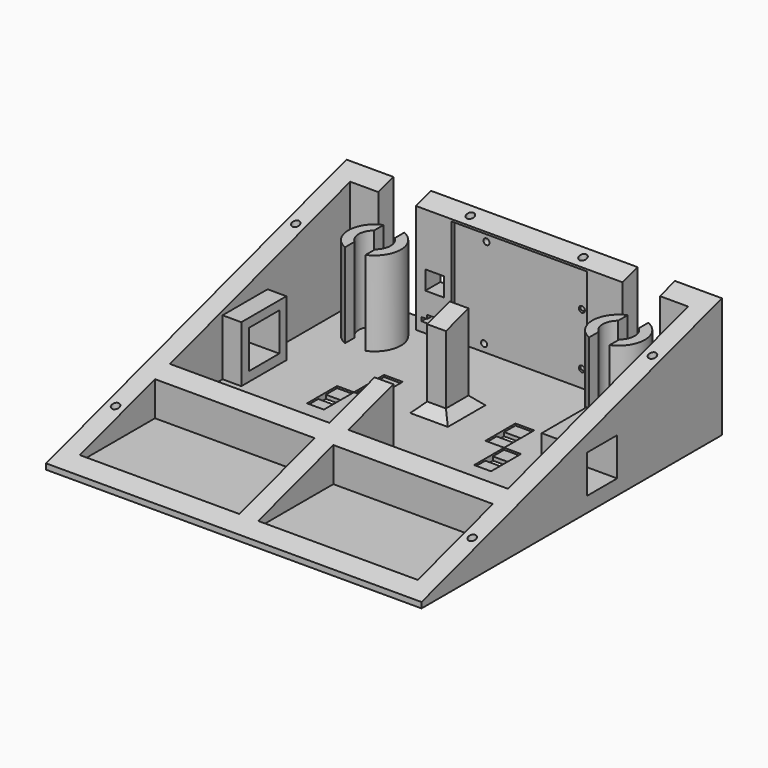
from build123d import *

# Parameters (mm, degrees)
SKETCH_W        = 200
SKETCH_H        = 200
PAD_DEPTH       = 3
PAD001_DEPTH    = 100
SKETCH004_W     = 85
SKETCH004_H     = 50
POCKET_DEPTH    = 200
PAD002_DEPTH    = 45
SKETCH005_W     = 30
SKETCH005_H     = 30
PAD003_DEPTH    = 100
SKETCH006_W     = 32
SKETCH006_H     = 35
SKETCH006_W_2   = 50
SKETCH006_H_2   = 40
SKETCH006_W_3   = 80
SKETCH006_W_4   = 8
SKETCH006_H_3   = 30
POCKET001_DEPTH = 200
SKETCH003_W     = 20.3
SKETCH003_H     = 20.3
POCKET002_DEPTH = 250
SKETCH012_W     = 10
SKETCH012_H     = 20
POCKET003_DEPTH = 1
SKETCH002_R     = 2
POCKET004_DEPTH = 250
SKETCH011_W     = 72
SKETCH011_H     = 57
POCKET005_DEPTH = 2
SKETCH013_R     = 1.6
POCKET006_DEPTH = 10
SKETCH014_W     = 10
SKETCH014_H     = 10
POCKET007_DEPTH = 10
SKETCH015_W     = 9
SKETCH015_H     = 20
POCKET008_DEPTH = 1
SKETCH016_W     = 9
SKETCH016_H     = 5
SKETCH016_W_2   = 10
POCKET009_DEPTH = 5
CHAMFER_SIZE    = 5


with BuildPart() as part:
    # Sketch → Pad (new body)
    with BuildSketch(Plane.XY):
        Rectangle(SKETCH_W, SKETCH_H)
    extrude(amount=-PAD_DEPTH)

    # Sketch001 → Pad001 (join, symmetric)
    with BuildSketch(Plane.YZ):
        Polygon((-100, 0), (100, 61.146136), (100, 0), align=None)
    extrude(amount=PAD001_DEPTH, both=True)

    # Sketch004 → Pocket (cut)
    with BuildSketch(Plane.XY):
        Polygon((-90, 90), (-75, 90), (-75, 100), (-55, 100), (-55, 90), (-5, 90), (-5, -30), (-90, -30), align=None)
        Polygon((5, 90), (55, 90), (55, 100), (75, 100), (75, 90), (90, 90), (90, -30), (5, -30), align=None)
        with Locations((-47.5, -65)):
            Rectangle(SKETCH004_W, SKETCH004_H)
        with Locations((47.5, -65)):
            Rectangle(SKETCH004_W, SKETCH004_H)
    extrude(amount=POCKET_DEPTH, mode=Mode.SUBTRACT)

    # Sketch007 → Pad002 (join)
    with BuildSketch(Plane.XY):
        with BuildLine():
            ThreePointArc((-70.491318, 81.488099), (-73.5, 75), (-70.491318, 68.511901))
            Line((-70.491318, 62.121901), (-70.491318, 68.511901))
            ThreePointArc((-70.491318, 87.878099), (-79, 75), (-70.491318, 62.121901))
            Line((-70.491318, 81.488099), (-70.491318, 87.878099))
        make_face()
        with BuildLine():
            Line((-59.508682, 87.878099), (-59.508682, 81.488099))
            ThreePointArc((-59.508682, 68.511901), (-56.5, 75), (-59.508682, 81.488099))
            Line((-59.508682, 68.511901), (-59.508682, 62.121901))
            ThreePointArc((-59.508682, 62.121901), (-51, 75), (-59.508682, 87.878099))
        make_face()
        with BuildLine():
            ThreePointArc((70.491318, 68.511901), (73.5, 75), (70.491318, 81.488099))
            Line((70.491318, 87.878099), (70.491318, 81.488099))
            ThreePointArc((70.491318, 62.121901), (79, 75), (70.491318, 87.878099))
            Line((70.491318, 68.511901), (70.491318, 62.121901))
        make_face()
        with BuildLine():
            Line((59.508682, 62.121901), (59.508682, 68.511901))
            ThreePointArc((59.508682, 81.488099), (56.5, 75), (59.508682, 68.511901))
            Line((59.508682, 81.488099), (59.508682, 87.878099))
            ThreePointArc((59.508682, 87.878099), (51, 75), (59.508682, 62.121901))
        make_face()
    extrude(amount=PAD002_DEPTH)

    # Sketch005 → Pad003 (join, symmetric)
    with BuildSketch(Plane.YZ):
        with Locations((20, 15)):
            Rectangle(SKETCH005_W, SKETCH005_H)
    extrude(amount=PAD003_DEPTH, both=True)

    # Sketch006 → Pocket001 (cut)
    with BuildSketch(Plane.XY):
        with Locations((-64, 17.5)):
            Rectangle(SKETCH006_W, SKETCH006_H)
        with Locations((64, 17.5)):
            Rectangle(SKETCH006_W, SKETCH006_H)
        with Locations((0, 70)):
            Rectangle(SKETCH006_W_2, SKETCH006_H_2)
        with Locations((0, 17.5)):
            Rectangle(SKETCH006_W_3, SKETCH006_H)
        with Locations((44, 20)):
            Rectangle(SKETCH006_W_4, SKETCH006_H_3)
        with Locations((-44, 20)):
            Rectangle(SKETCH006_W_4, SKETCH006_H_3)
    extrude(amount=POCKET001_DEPTH, mode=Mode.SUBTRACT)

    # Sketch003 → Pocket002 (cut, symmetric)
    with BuildSketch(Plane.YZ):
        with Locations((20.15, 15.15)):
            Rectangle(SKETCH003_W, SKETCH003_H)
    extrude(amount=POCKET002_DEPTH, both=True, mode=Mode.SUBTRACT)

    # Sketch012 → Pocket003 (cut)
    with BuildSketch(Plane.XY):
        with Locations((35, 40)):
            Rectangle(SKETCH012_W, SKETCH012_H)
        with Locations((-35, 40)):
            Rectangle(SKETCH012_W, SKETCH012_H)
    extrude(amount=-POCKET003_DEPTH, mode=Mode.SUBTRACT)

    # Sketch002 → Pocket004 (cut, symmetric)
    with BuildSketch(Plane.XY):
        with Locations((-95, 60)):
            Circle(SKETCH002_R)
        with Locations((-95, -60)):
            Circle(SKETCH002_R)
        with Locations((95, -60)):
            Circle(SKETCH002_R)
        with Locations((95, 60)):
            Circle(SKETCH002_R)
        with Locations((-30, 95)):
            Circle(SKETCH002_R)
        with Locations((30, 95)):
            Circle(SKETCH002_R)
    extrude(amount=POCKET004_DEPTH, both=True, mode=Mode.SUBTRACT)

    # Sketch011 → Pocket005 (cut)
    with BuildSketch(Plane.XZ.offset(-90)):
        with Locations((0, 28.5)):
            Rectangle(SKETCH011_W, SKETCH011_H)
    extrude(amount=-POCKET005_DEPTH, mode=Mode.SUBTRACT)

    # Sketch013 → Pocket006 (cut)
    with BuildSketch(Plane.XZ.offset(-100)):
        with Locations((-19, 52.2)):
            Circle(SKETCH013_R)
        with Locations((31.8, 37)):
            Circle(SKETCH013_R)
        with Locations((-20.3, 4)):
            Circle(SKETCH013_R)
        with Locations((31.8, 9.1)):
            Circle(SKETCH013_R)
    extrude(amount=POCKET006_DEPTH, mode=Mode.SUBTRACT)

    # Sketch014 → Pocket007 (cut)
    with BuildSketch(Plane.XZ.offset(-100)):
        with Locations((-45, 25)):
            Rectangle(SKETCH014_W, SKETCH014_H)
        Polygon((-52, 7), (-49, 7), (-49, 9), (-41, 9), (-41, 7), (-38, 7), (-38, 5), (-52, 5), align=None)
    extrude(amount=POCKET007_DEPTH, mode=Mode.SUBTRACT)

    # Sketch015 → Pocket008 (cut)
    with BuildSketch(Plane.XY):
        with Locations((44.5, 20)):
            Rectangle(SKETCH015_W, SKETCH015_H)
        with Locations((-44.5, 20)):
            Rectangle(SKETCH015_W, SKETCH015_H)
    extrude(amount=-POCKET008_DEPTH, mode=Mode.SUBTRACT)

    # Sketch016 → Pocket009 (cut)
    with BuildSketch(Plane.XY):
        with Locations((44.5, 20)):
            Rectangle(SKETCH016_W, SKETCH016_H)
        with Locations((35, 40)):
            Rectangle(SKETCH016_W_2, SKETCH016_H)
        with Locations((-44.5, 20)):
            Rectangle(SKETCH016_W, SKETCH016_H)
        with Locations((-35, 40)):
            Rectangle(SKETCH016_W_2, SKETCH016_H)
    extrude(amount=-POCKET009_DEPTH, mode=Mode.SUBTRACT)

    # Chamfer
    chamfer_edges = [part.edges().sort_by_distance(p)[0] for p in [
        (0, 35, 0),
        (5, 42.5, 0),
        (-5, 42.5, 0),
        (0, 50, 0),
    ]]
    chamfer(chamfer_edges, length=CHAMFER_SIZE)


solid = part.part
